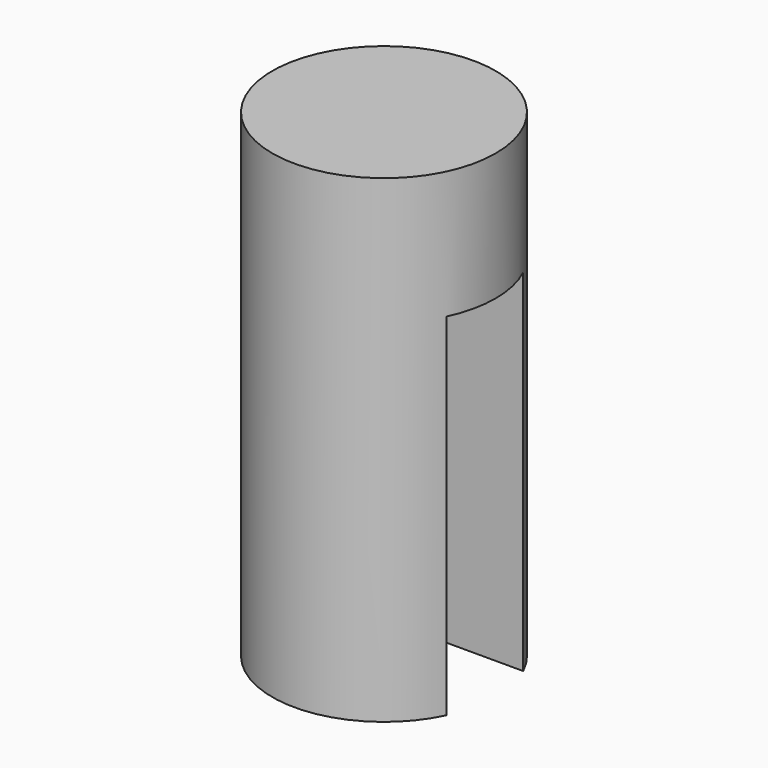
from build123d import *

# Parameters (mm, degrees)
F0_R     = 3.500006
F1_DEPTH = 14.999995
F2_W     = 12.741254
F2_H     = 2.999994
F3_DEPTH = 11.000003


with BuildPart() as f1:
    # F0 (on Top) → F1 (new body)
    with BuildSketch(Plane.XY):
        Circle(F0_R)
    extrude(amount=F1_DEPTH)

    # F2 (on Top) → F3 (cut)
    with BuildSketch(Plane.XY):
        Rectangle(F2_W, F2_H)
    extrude(amount=F3_DEPTH, mode=Mode.SUBTRACT)


solid = f1.part
